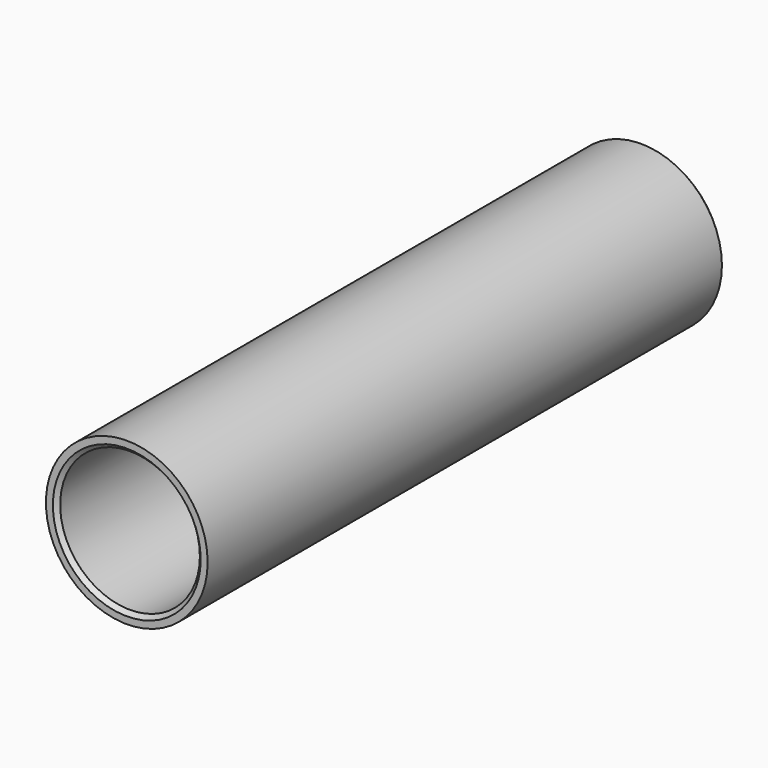
from build123d import *

# Parameters (mm, degrees)
F0_R     = 10
F1_DEPTH = 20
F3_D     = 15
F3_DEPTH = 10.4935
F3_TIP   = 4.5064546427
F4_R     = 10
F4_R_2   = 8.75
F5_DEPTH = 22
F6_R     = 10
F6_R_2   = 8.64
F7_DEPTH = 18
F8_SIZE  = 0.5


with BuildPart() as f1:
    # F0 (on Front) → F1 (new body, symmetric)
    with BuildSketch(Plane.XZ):
        Circle(F0_R)
    extrude(amount=F1_DEPTH, both=True)

    # F3
    with Locations(Plane.XZ.offset(20)):
        with Locations((0, 0)):
            Hole(F3_D / 2, depth=F3_DEPTH)
            with Locations((0, 0, -(F3_DEPTH + F3_TIP / 2))):  # 118° drill point
                Cone(0, F3_D / 2, F3_TIP, mode=Mode.SUBTRACT)

    # F4 (on face) → F5 (join)
    with BuildSketch(Plane.XZ.offset(20)):
        Circle(F4_R)
        Circle(F4_R_2, mode=Mode.SUBTRACT)
    extrude(amount=F5_DEPTH)

    # F6 (on face) → F7 (join)
    with BuildSketch(Plane.XZ.offset(42)):
        Circle(F6_R)
        Circle(F6_R_2, mode=Mode.SUBTRACT)
    extrude(amount=F7_DEPTH)

    # F8
    f8_edges = [f1.edges().sort_by_distance(p)[0] for p in [
        (-8.64, -60, 0),
        (-10, 20, 0),
    ]]
    chamfer(f8_edges, length=F8_SIZE)


solid = f1.part
